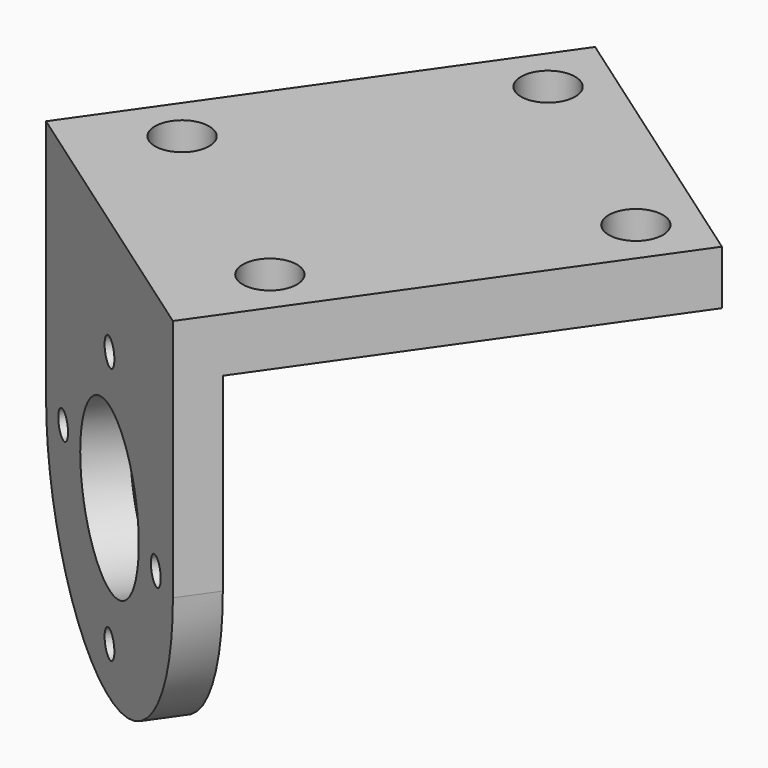
from build123d import *

# Parameters (mm, degrees)
SKETCH096_R             = 6
PAD068_DEPTH            = 3
SKETCH097_W             = 26
SKETCH097_H             = 4
PAD069_DEPTH            = 30
SKETCH098_R             = 2
POCKET036_DEPTH         = 31.001
SKETCH099_R             = 1
POCKET037_DEPTH         = 137.42322
POLARPATTERN015_COUNT   = 4
BODY041_PLACEMENT_ANGLE = 145


with BuildPart() as part:
    # Sketch096 → Pad068 (new body)
    with BuildSketch(Plane.XZ):
        with BuildLine():
            Line((-13, 18), (13, 18))
            Line((13, 18), (13, 0))
            ThreePointArc((-13, 0), (0, -13), (13, 0))
            Line((-13, 18), (-13, 0))
        make_face()
        Circle(SKETCH096_R, mode=Mode.SUBTRACT)
    extrude(amount=PAD068_DEPTH)

    # Sketch097 (on Face7 of Pad068) → Pad069 (join)
    with BuildSketch(Plane.XZ.offset(3)):
        with Locations((0, 16)):
            Rectangle(SKETCH097_W, SKETCH097_H)
    extrude(amount=PAD069_DEPTH)

    # Sketch098 (on Face5 of Pad069) → Pocket036 (cut, through all)
    with BuildSketch(Plane(origin=(0, 0, 18), x_dir=(-1, 0, 0), z_dir=(0, 0, 1))):
        with Locations((-9, 7)):
            Circle(SKETCH098_R)
        with Locations((9, 7)):
            Circle(SKETCH098_R)
        with Locations((-9, 29)):
            Circle(SKETCH098_R)
        with Locations((9, 29)):
            Circle(SKETCH098_R)
    extrude(amount=-POCKET036_DEPTH, mode=Mode.SUBTRACT)

    # Sketch099 (on Face4 of Pocket036) → Pocket037 (cut, through all)
    with BuildSketch(Plane(origin=(0, 0, 0), x_dir=(1, 0, 0), z_dir=(0, 1, 0))):
        with Locations((0, 9.5)):
            Circle(SKETCH099_R)
    pocket037 = extrude(amount=-POCKET037_DEPTH, mode=Mode.SUBTRACT)

    # PolarPattern015: Pocket037 ×4 about axis
    polarpattern015_axis = Axis((0, 0, 0), (0, 1, 0))
    for i in range(1, POLARPATTERN015_COUNT):
        add(pocket037.rotate(polarpattern015_axis, i * 360 / POLARPATTERN015_COUNT), mode=Mode.SUBTRACT)


with BuildPart() as part_1:
    # Body041 placement: moved
    add(part.part.moved(Location((-43.591809, -62.255555, -8))).rotate(Axis((-43.591809, -62.255555, -8), (0, 0, 1)), BODY041_PLACEMENT_ANGLE))


solid = part_1.part
